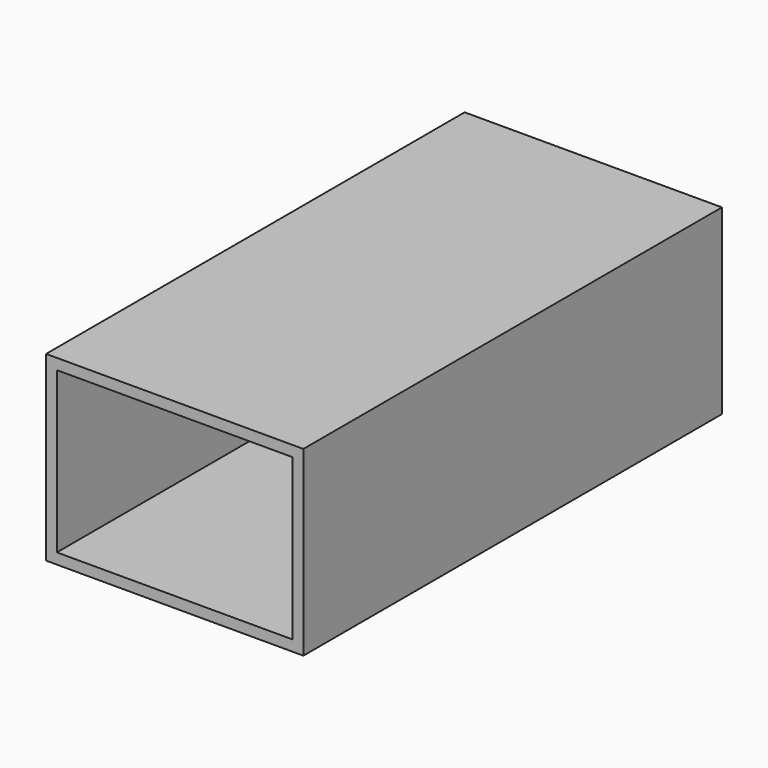
from build123d import *

# Parameters (mm, degrees)
F0_W     = 60.587034
F0_H     = 42.863859
F1_DEPTH = 123.19
F2_T     = -2.54


with BuildPart() as f1:
    # F0 (on Front) → F1 (new body)
    with BuildSketch(Plane.XZ):
        with Locations((-12.137376, 11.260254)):
            Rectangle(F0_W, F0_H)
    extrude(amount=-F1_DEPTH)

    # F2
    f2_openings = [f1.faces().sort_by_distance(p)[0] for p in [
        (-12.137376, 0, 11.260253),
        (-12.137376, 123.19, 11.260253),
    ]]
    offset(amount=F2_T, openings=f2_openings)


solid = f1.part
